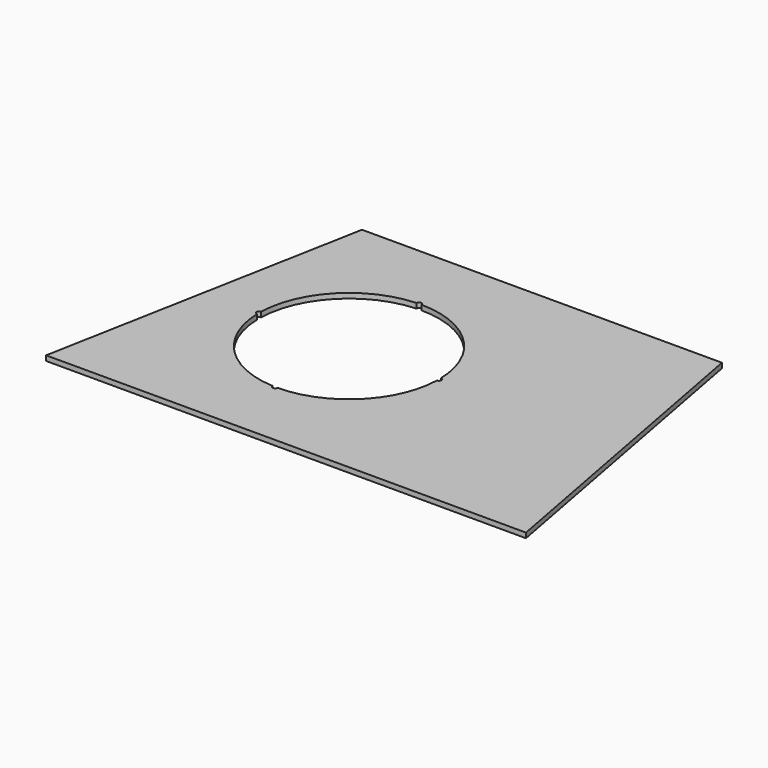
from build123d import *

# Parameters (mm, degrees)
F1_DEPTH = 3.175
F3_D     = 3.175
F3_DEPTH = 17.4625


with BuildPart() as f1:
    # F0 (on Top) → F1 (new body)
    with BuildSketch(Plane.XY):
        Polygon((-108.327691, 182.628707), (-146.427691, -20.571293), (158.372309, -20.571293), (120.272309, 182.628707), (5.972309, 182.628707), align=None)
        with BuildLine():
            ThreePointArc((-35.302691, 138.178707), (5.108462, 121.439859), (21.847309, 81.028707))
            ThreePointArc((21.847309, 81.028707), (5.108462, 40.617554), (-35.302691, 23.878707))
            ThreePointArc((-35.302691, 23.878707), (-75.713844, 40.617554), (-92.452691, 81.028707))
            ThreePointArc((-92.452691, 81.028707), (-75.713844, 121.439859), (-35.302691, 138.178707))
        make_face(mode=Mode.SUBTRACT)
    extrude(amount=F1_DEPTH)

    # F3
    with Locations(Plane.XY.offset(3.175)):
        with Locations((-36.544064, 138.165223), (21.847309, 81.028707), (-36.544064, 23.89219), (-92.452691, 81.028707)):
            Hole(F3_D / 2, depth=F3_DEPTH)


solid = f1.part
